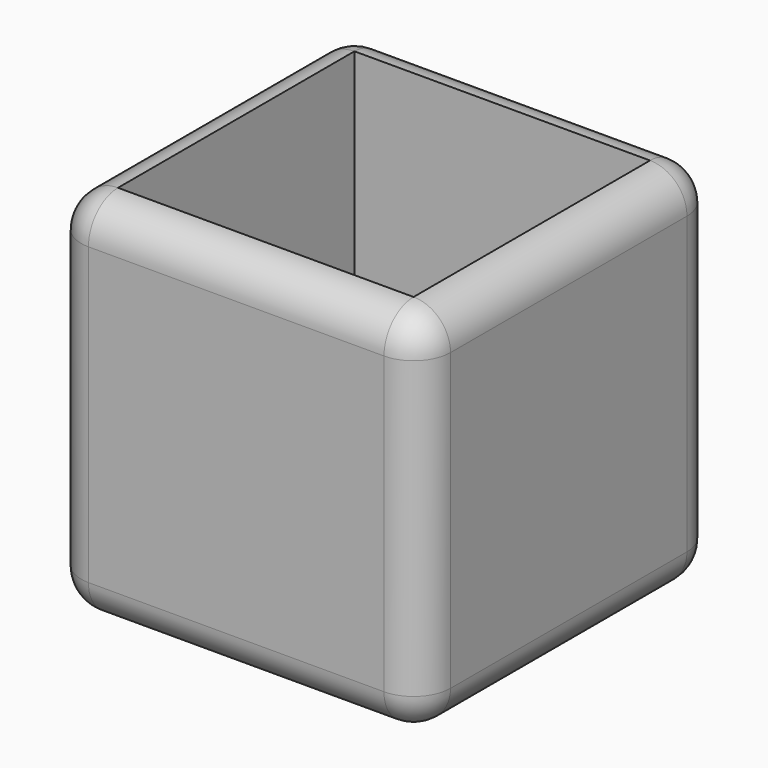
from build123d import *

# Parameters (mm, degrees)
F0_W     = 63.5
F0_H     = 63.5
F1_DEPTH = 63.5
F2_R     = 6.35
F3_W     = 50.8
F3_H     = 50.8
F4_DEPTH = 57.15


with BuildPart() as f1:
    # F0 (on Front) → F1 (new body)
    with BuildSketch(Plane.XZ):
        with Locations((-37.683266, 31.75)):
            Rectangle(F0_W, F0_H)
    extrude(amount=F1_DEPTH)

    # F2
    f2_edges = [f1.edges().sort_by_distance(p)[0] for p in [
        (-69.433266, -31.75, 0),
        (-5.933266, -31.75, 0),
        (-37.683266, 0, 0),
        (-37.683266, -63.5, 0),
        (-37.683266, -63.5, 63.5),
        (-69.433266, -63.5, 31.75),
        (-5.933266, -63.5, 31.75),
        (-5.933266, -31.75, 63.5),
        (-5.933266, 0, 31.75),
        (-37.683266, 0, 63.5),
        (-69.433266, 0, 31.75),
        (-69.433266, -31.75, 63.5),
    ]]
    fillet(f2_edges, radius=F2_R)

    # F3 (on face) → F4 (cut)
    with BuildSketch(Plane.XY.offset(63.5)):
        with Locations((-37.683266, -31.75)):
            Rectangle(F3_W, F3_H)
    extrude(amount=-F4_DEPTH, mode=Mode.SUBTRACT)


solid = f1.part
